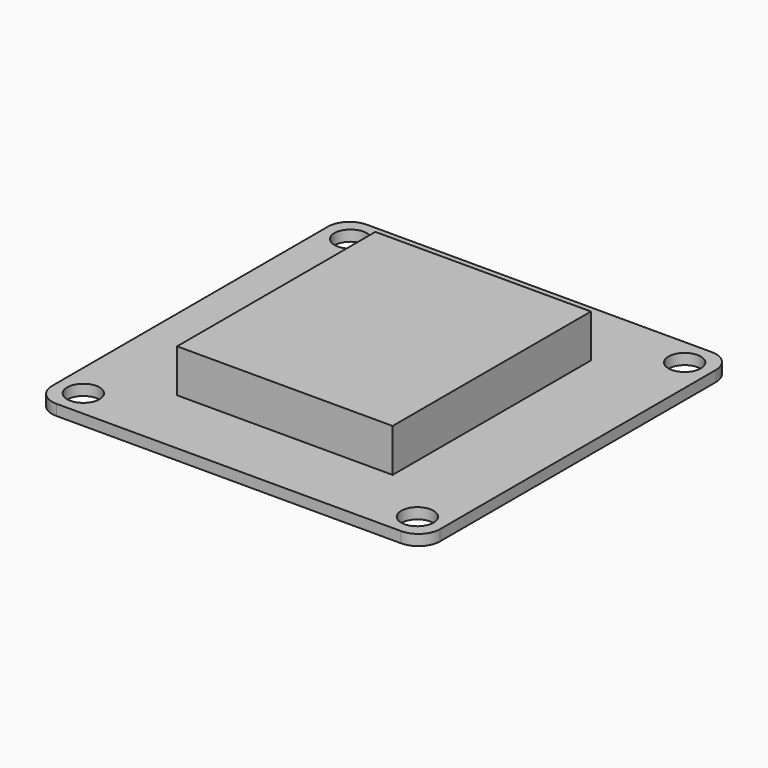
from build123d import *

# Parameters (mm, degrees)
F0_R     = 1.5
F1_DEPTH = 1
F2_W     = 20
F2_H     = 23
F3_DEPTH = 4


with BuildPart() as f1:
    # F0 (on Top) → F1 (new body)
    with BuildSketch(Plane.XY):
        with BuildLine():
            Line((16, 18), (-16, 18))
            ThreePointArc((-16, 18), (-17.414214, 17.414214), (-18, 16))
            Line((-18, 16), (-18, -16))
            ThreePointArc((-18, -16), (-17.414214, -17.414214), (-16, -18))
            Line((-16, -18), (16, -18))
            ThreePointArc((16, -18), (17.414214, -17.414214), (18, -16))
            Line((18, -16), (18, 16))
            ThreePointArc((18, 16), (17.414214, 17.414214), (16, 18))
        make_face()
        with Locations((-15.5, -15.5)):
            Circle(F0_R, mode=Mode.SUBTRACT)
        with Locations((15.5, -15.5)):
            Circle(F0_R, mode=Mode.SUBTRACT)
        with Locations((-15.5, 15.5)):
            Circle(F0_R, mode=Mode.SUBTRACT)
        with Locations((15.5, 15.5)):
            Circle(F0_R, mode=Mode.SUBTRACT)
    extrude(amount=F1_DEPTH)

    # F2 (on face) → F3 (join)
    with BuildSketch(Plane.XY.offset(1)):
        Rectangle(F2_W, F2_H)
    extrude(amount=F3_DEPTH)


solid = f1.part
